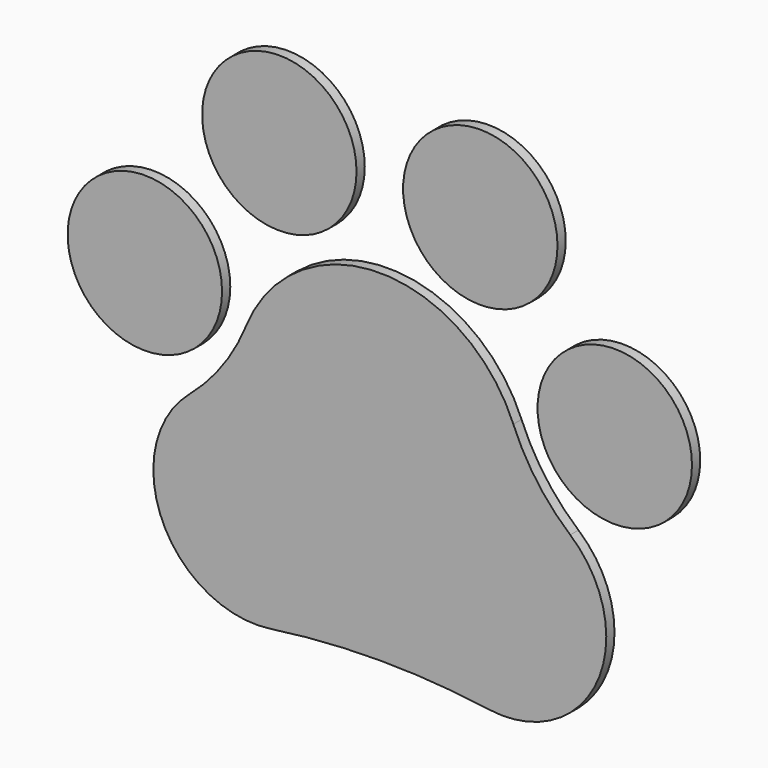
from build123d import *

# Parameters (mm, degrees)
BOX007_W     = 22
BOX007_H     = 1.8
BOX007_DEPTH = 22
BOX006_W     = 20
BOX006_H     = 20
BOX006_DEPTH = 1.8
SKETCH038_R  = 1.5
PAD011_DEPTH = 0.2


with BuildPart() as cube001:
    # Box007 → Box007 (new body)
    with BuildSketch(Plane(origin=(11, 0, -11), x_dir=(-1, 0, 0), z_dir=(0, 0, 1))):
        with Locations((11, 0.9)):
            Rectangle(BOX007_W, BOX007_H)
    extrude(amount=BOX007_DEPTH)


with BuildPart() as beans001:
    # Box006 → Box006 (join)
    with BuildSketch(Plane(origin=(-10, 0, -10), x_dir=(1, 0, 0), z_dir=(0, -1, 0))):
        with Locations((10, 10)):
            Rectangle(BOX006_W, BOX006_H)
    extrude(amount=BOX006_DEPTH)

    # Sketch038 → Pad011 (join)
    with BuildSketch(Plane(origin=(0, -2, -1), x_dir=(1, 0, 0), z_dir=(0, -1, 0))):
        with Locations((-4.565071, 1.483282)):
            Circle(SKETCH038_R)
        with Locations((4.565071, 1.483282)):
            Circle(SKETCH038_R)
        with Locations((-1.952336, 4.385018)):
            Circle(SKETCH038_R)
        with Locations((1.952336, 4.385018)):
            Circle(SKETCH038_R)
        with BuildLine():
            ThreePointArc((2.594039, 1.054023), (0, 2.8), (-2.594039, 1.054023))
            ThreePointArc((-3.699936, -0.480077), (-3.055021, 0.220676), (-2.594039, 1.054023))
            ThreePointArc((-3.699936, -0.480077), (-4.22241, -2.823905), (-2.117647, -3.979969))
            ThreePointArc((2.117647, -3.979969), (0, -3.829736), (-2.117647, -3.979969))
            ThreePointArc((2.117647, -3.979969), (4.22241, -2.823905), (3.699936, -0.480077))
            ThreePointArc((2.594039, 1.054023), (3.055021, 0.220676), (3.699936, -0.480077))
        make_face()
    extrude(amount=-PAD011_DEPTH)

    # Cut002: cut Cube001
    add(cube001.part, mode=Mode.SUBTRACT)


solid = beans001.part
